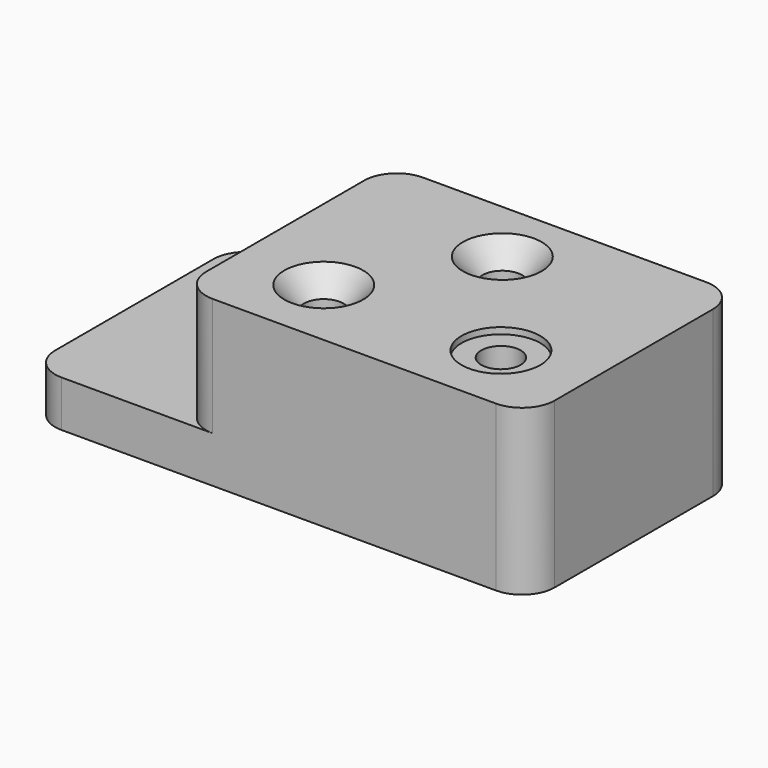
from build123d import *

# Parameters (mm, degrees)
F1_DEPTH       = 127
F3_R           = 15.748
F4_D           = 19.05
F4_CSINK_D     = 38.1
F4_CSINK_ANGLE = 82
F6_D           = 19.05
F6_CBORE_D     = 38.1
F6_CBORE_DEPTH = 3.048
F8_D           = 19.05
F8_CBORE_D     = 38.1
F8_CBORE_DEPTH = 3.048


with BuildPart() as f1:
    # F0 (on Front) → F1 (new body)
    with BuildSketch(Plane.XZ):
        Polygon((0, 22.352), (0, 0), (241.3, 0), (241.3, 79.502), (72.898, 79.502), (72.898, 22.352), align=None)
    extrude(amount=F1_DEPTH)

    # F3
    f3_edges = [f1.edges().sort_by_distance(p)[0] for p in [
        (0, -127, 11.176),
        (0, 0, 11.176),
        (72.898, 0, 50.927),
        (72.898, -127, 50.927),
        (241.3, -127, 39.751),
        (241.3, 0, 39.751),
    ]]
    fillet(f3_edges, radius=F3_R)

    # F4 (through all)
    with Locations(Plane.XY.offset(79.502)):
        with Locations((152.4, -31.75), (114.3, -91.948)):
            CounterSinkHole(F4_D / 2, F4_CSINK_D / 2, counter_sink_angle=F4_CSINK_ANGLE)

    # F6 (through all)
    with Locations(Plane.XY.offset(79.502)):
        with Locations((199.898, -91.948)):
            CounterBoreHole(F6_D / 2, F6_CBORE_D / 2, F6_CBORE_DEPTH)

    # F8 (through all)
    with Locations(Plane.XY.offset(22.352)):
        with Locations((35.052, -31.75)):
            CounterBoreHole(F8_D / 2, F8_CBORE_D / 2, F8_CBORE_DEPTH)


solid = f1.part
